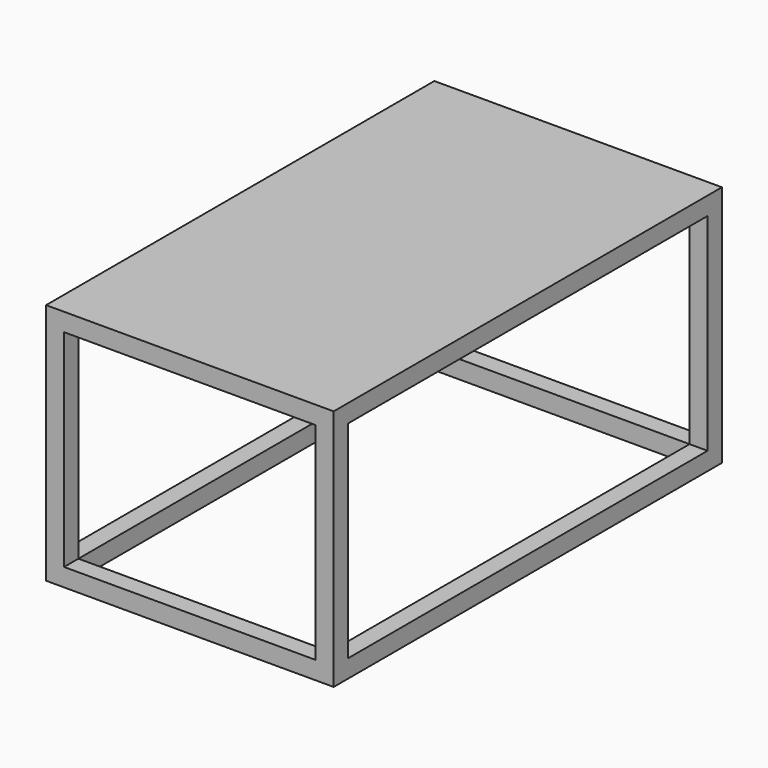
from build123d import *

# Parameters (mm, degrees)
F0_W     = 406.4
F0_H     = 685.8
F1_DEPTH = 25.4
F2_W     = 25.4
F2_H     = 25.4
F3_DEPTH = 317.5
F4_W     = 406.4
F4_H     = 685.8
F5_DEPTH = 25.4
F6_W     = 355.6
F6_H     = 635
F7_DEPTH = 25.4


with BuildPart() as f1:
    # F0 (on Top) → F1 (new body)
    with BuildSketch(Plane.XY):
        Rectangle(F0_W, F0_H)
    extrude(amount=F1_DEPTH)

    # F2 (on face) → F3 (join)
    with BuildSketch(Plane(origin=(0, 0, 0), x_dir=(1, 0, 0), z_dir=(0, 0, -1))):
        with Locations((190.5, 330.2)):
            Rectangle(F2_W, F2_H)
        with Locations((-190.5, -330.2)):
            Rectangle(F2_W, F2_H)
        with Locations((190.5, -330.2)):
            Rectangle(F2_W, F2_H)
        with Locations((-190.5, 330.2)):
            Rectangle(F2_W, F2_H)
    extrude(amount=F3_DEPTH)

    # F4 (on face) → F5 (join)
    with BuildSketch(Plane(origin=(0, 0, -317.5), x_dir=(1, 0, 0), z_dir=(0, 0, -1))):
        Rectangle(F4_W, F4_H)
    extrude(amount=-F5_DEPTH)

    # F6 (on face) → F7 (cut)
    with BuildSketch(Plane(origin=(0, 0, -317.5), x_dir=(1, 0, 0), z_dir=(0, 0, -1))):
        Rectangle(F6_W, F6_H)
    extrude(amount=-F7_DEPTH, mode=Mode.SUBTRACT)


solid = f1.part
